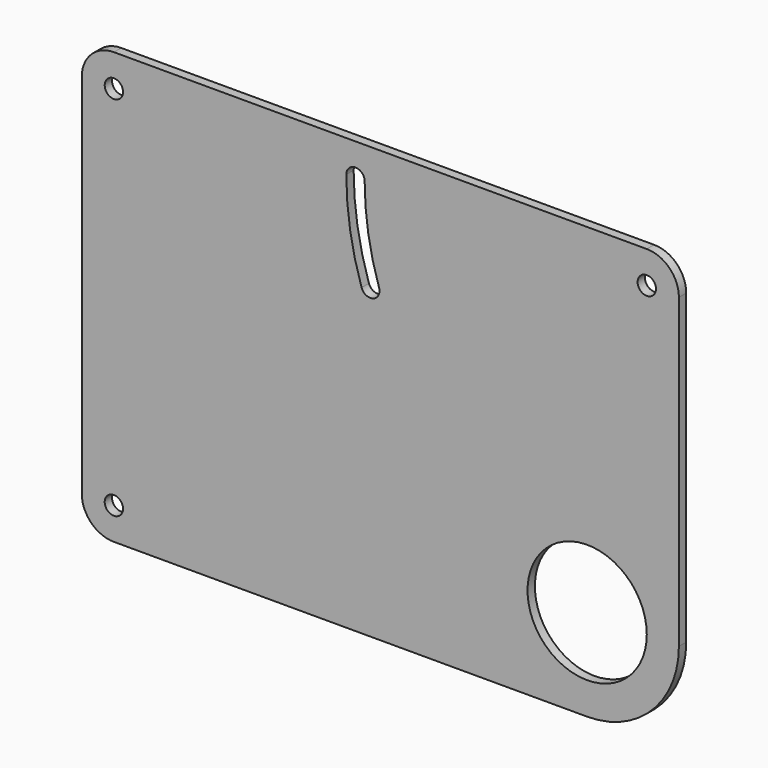
from build123d import *

# Parameters (mm, degrees)
F0_R     = 10
F0_R_2   = 65
F1_DEPTH = 10


with BuildPart() as f1:
    # F0 (on Front) → F1 (new body)
    with BuildSketch(Plane.XZ):
        with BuildLine():
            Line((-35, 400), (-35, 0))
            ThreePointArc((-35, 0), (-24.748737, -24.748737), (0, -35))
            Line((0, -35), (516, -35))
            ThreePointArc((516, -35), (586.710678, -5.710678), (616, 65))
            Line((616, 65), (616, 400))
            ThreePointArc((616, 400), (605.748737, 424.748737), (581, 435))
            Line((581, 435), (263.4, 435))
            Line((263.4, 435), (0, 435))
            ThreePointArc((0, 435), (-24.748737, 424.748737), (-35, 400))
        make_face()
        Circle(F0_R, mode=Mode.SUBTRACT)
        with Locations((516, 65)):
            Circle(F0_R_2, mode=Mode.SUBTRACT)
        with Locations((0, 400)):
            Circle(F0_R, mode=Mode.SUBTRACT)
        with BuildLine():
            ThreePointArc((270.062509, 296.851385), (257.592454, 347.757116), (253.4, 400))
            ThreePointArc((253.4, 400), (263.4, 410), (273.4, 400))
            ThreePointArc((273.4, 400), (277.336504, 350.946547), (289.045262, 303.148615))
            ThreePointArc((289.045262, 303.148615), (282.7025, 290.508624), (270.062509, 296.851385))
        make_face(mode=Mode.SUBTRACT)
        with Locations((581, 400)):
            Circle(F0_R, mode=Mode.SUBTRACT)
    extrude(amount=F1_DEPTH)


solid = f1.part
